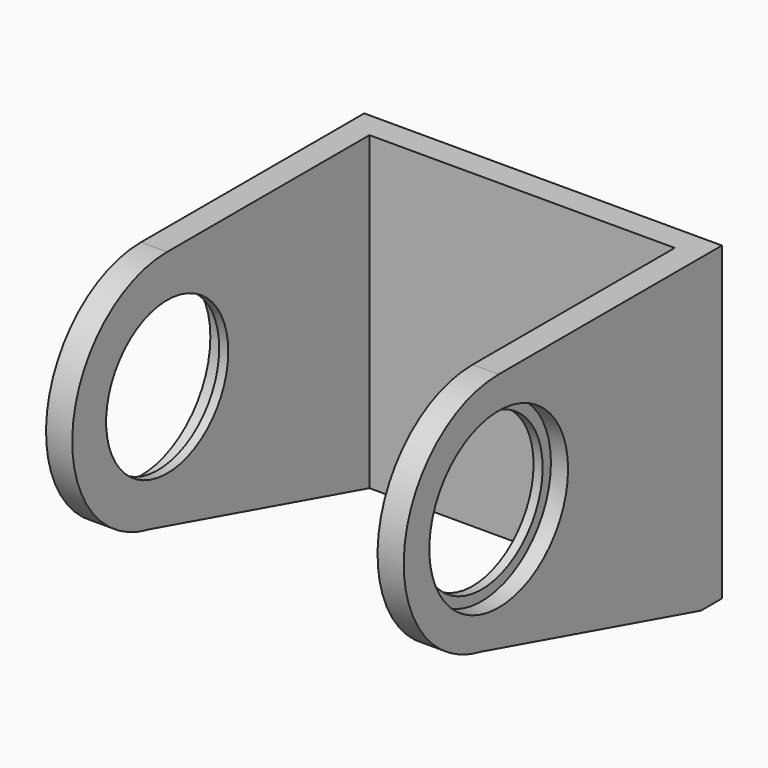
from build123d import *

# Parameters (mm, degrees)
F0_R     = 23
F0_R_2   = 18.5
F1_DEPTH = 2.2
F2_R     = 28.7689848305
F2_R_2   = 21.0167623051
F3_DEPTH = 6.35
F5_DEPTH = 6.35
F8_W     = 86.7
F8_H     = 75.3333002466
F9_DEPTH = 6.35


with BuildPart() as f1:
    # F0 (on Right) → F1 (new body)
    with BuildSketch(Plane.YZ):
        Circle(F0_R)
        Circle(F0_R_2, mode=Mode.SUBTRACT)
    extrude(amount=F1_DEPTH)

    # F2 (on Right) → F3 (join)
    with BuildSketch(Plane.YZ):
        Circle(F2_R)
        Circle(F2_R_2, mode=Mode.SUBTRACT)
    extrude(amount=F3_DEPTH)

    # F4 (on Right) → F5 (join)
    with BuildSketch(Plane.YZ):
        with BuildLine():
            Line((61.2828924653, 28.7689848305), (0, 28.7689848305))
            ThreePointArc((0, 28.7689848305), (28.652224252, -2.5893114127), (-5.1576050869, -28.3028902754))
            Line((-5.1576050869, -28.3028902754), (61.2828924653, -46.5643154161))
            Line((61.2828924653, -46.5643154161), (61.2828924653, 28.7689848305))
        make_face()
    extrude(amount=F5_DEPTH)


with BuildPart() as f6_1:
    # F6: instance of F1
    add(f1.part.mirror(Plane.YZ))


with BuildPart() as f6_1_1:
    # F7: moved
    add(f6_1.part.moved(Location((-74, 0, 0))))


with BuildPart() as f1_1:
    add(f1.part)

    add(f6_1_1.part)  # F9 merges F6_1
    # F8 (on face) → F9 (join)
    with BuildSketch(Plane(origin=(0, 61.2828924653, 0), x_dir=(-1, 0, 0), z_dir=(0, 1, 0))):
        with Locations((37, -8.8976652928)):
            Rectangle(F8_W, F8_H)
    extrude(amount=F9_DEPTH)


solid = f1_1.part
